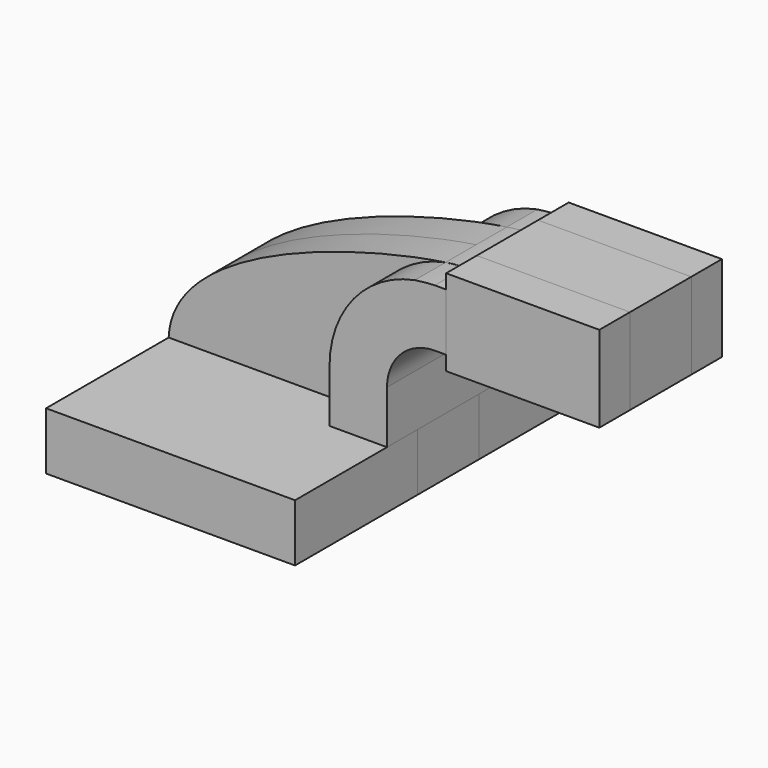
from build123d import *

# Parameters (mm, degrees)
F1_DEPTH = 63.5
F2_DEPTH = 25.4
F3_DEPTH = 12.7
F4_DEPTH = 25.4


with BuildPart() as f1:
    # F0 (on Front) → F1 (new body, symmetric)
    with BuildSketch(Plane.XZ):
        Polygon((41.275, -9.525), (41.275, 9.525), (22.225, 9.525), (-41.275, 9.525), (-41.275, -9.525), align=None)
    extrude(amount=F1_DEPTH, both=True)


with BuildPart() as f2:
    # F0 (on Front) → F2 (new body, symmetric)
    with BuildSketch(Plane.XZ):
        Polygon((60.883363, 61.9252), (60.883363, 42.8752), (60.883363, 38.1), (111.683363, 38.1), (111.683363, 66.675), (60.883363, 66.675), align=None)
    extrude(amount=F2_DEPTH, both=True)


with BuildPart() as f3:
    # F0 (on Front) → F3 (new body, symmetric)
    with BuildSketch(Plane.XZ):
        Polygon((41.275, -9.525), (41.275, 9.525), (22.225, 9.525), (-41.275, 9.525), (-41.275, -9.525), align=None)
        with BuildLine():
            Line((22.225, 9.525), (41.275, 9.525))
            Line((41.275, 9.525), (41.275, 27.0002))
            ThreePointArc((41.275, 27.0002), (45.92468, 38.22552), (57.15, 42.8752))
            Line((57.15, 42.8752), (60.883363, 42.8752))
            Line((60.883363, 42.8752), (60.883363, 61.9252))
            Line((60.883363, 61.9252), (57.15, 61.9252))
            add(Edge.make_bspline(
                [(50.507101, 61.287625), (53.335145, 61.685698), (55.604551, 61.898257), (57.15, 61.9252)],
                knots=[99.933925, 99.933925, 99.933925, 99.933925, 111.504536, 111.504536, 111.504536, 111.504536], degree=3))
            ThreePointArc((50.507101, 61.287625), (30.20785, 49.223525), (22.225, 27.0002))
            Line((22.225, 27.0002), (22.225, 9.525))
        make_face()
        with BuildLine():
            Line((-41.275, 9.525), (22.225, 9.525))
            Line((22.225, 9.525), (22.225, 27.0002))
            ThreePointArc((22.225, 27.0002), (30.20785, 49.223525), (50.507101, 61.287625))
            add(Edge.make_bspline(
                [(-41.275, 9.525), (-40.015769, 40.572965), (26.08164, 57.849522), (50.507101, 61.287625)],
                knots=[0, 0, 0, 0, 99.933925, 99.933925, 99.933925, 99.933925], degree=3))
        make_face()
        with BuildLine():
            ThreePointArc((57.15, 61.9252), (53.813287, 61.765441), (50.507101, 61.287625))
            add(Edge.make_bspline(
                [(50.507101, 61.287625), (53.335145, 61.685698), (55.604551, 61.898257), (57.15, 61.9252)],
                knots=[99.933925, 99.933925, 99.933925, 99.933925, 111.504536, 111.504536, 111.504536, 111.504536], degree=3))
        make_face()
        Polygon((60.883363, 61.9252), (60.883363, 42.8752), (60.883363, 38.1), (111.683363, 38.1), (111.683363, 66.675), (60.883363, 66.675), align=None)
    extrude(amount=F3_DEPTH, both=True)


with BuildPart() as f4:
    # F0 (on Front) → F4 (new body, symmetric)
    with BuildSketch(Plane.XZ):
        with BuildLine():
            Line((22.225, 9.525), (41.275, 9.525))
            Line((41.275, 9.525), (41.275, 27.0002))
            ThreePointArc((41.275, 27.0002), (45.92468, 38.22552), (57.15, 42.8752))
            Line((57.15, 42.8752), (60.883363, 42.8752))
            Line((60.883363, 42.8752), (60.883363, 61.9252))
            Line((60.883363, 61.9252), (57.15, 61.9252))
            add(Edge.make_bspline(
                [(50.507101, 61.287625), (53.335145, 61.685698), (55.604551, 61.898257), (57.15, 61.9252)],
                knots=[99.933925, 99.933925, 99.933925, 99.933925, 111.504536, 111.504536, 111.504536, 111.504536], degree=3))
            ThreePointArc((50.507101, 61.287625), (30.20785, 49.223525), (22.225, 27.0002))
            Line((22.225, 27.0002), (22.225, 9.525))
        make_face()
    extrude(amount=F4_DEPTH, both=True)


solid = Compound([f1.part, f2.part, f3.part, f4.part])
